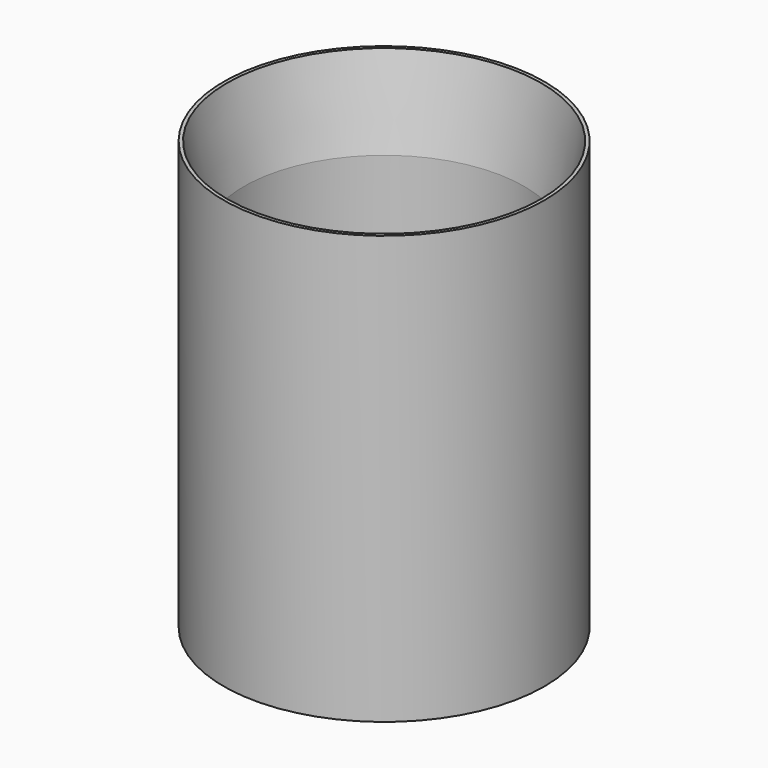
from build123d import *

# Parameters (mm, degrees)
F0_R     = 9.525
F1_DEPTH = 25.4
F2_T     = -1.2
F3_SIZE2 = 0.9966563757
F3_SIZE  = 5.08


with BuildPart() as f1:
    # F0 (on Top) → F1 (new body)
    with BuildSketch(Plane.XY):
        Circle(F0_R)
    extrude(amount=F1_DEPTH)

    # F2
    f2_openings = [f1.faces().sort_by_distance(p)[0] for p in [
        (0, 0, 25.4),
        (0, 0, 0),
    ]]
    offset(amount=F2_T, openings=f2_openings)

    # F3
    f3_edges = [f1.edges().sort_by_distance(p)[0] for p in [
        (-8.325, 0, 25.4),
    ]]
    chamfer(f3_edges, length=F3_SIZE, length2=F3_SIZE2)


solid = f1.part
